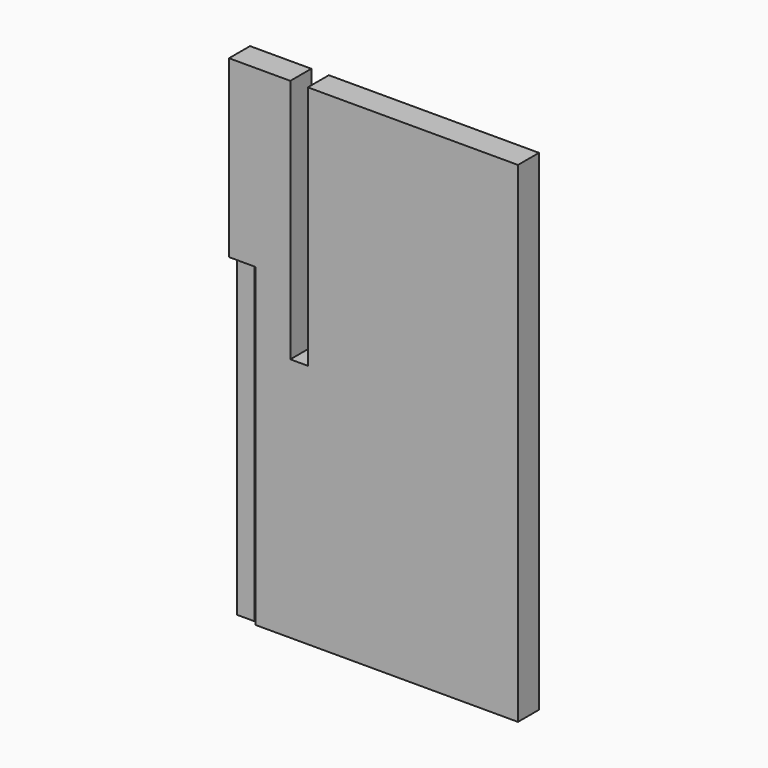
from build123d import *

# Parameters (mm, degrees)
F1_DEPTH = 150
F2_W     = 25
F2_H     = 1800
F3_DEPTH = 100
F4_W     = 100
F4_H     = 1400
F5_DEPTH = 150


with BuildPart() as f1:
    # F0 (on Front) → F1 (new body)
    with BuildSketch(Plane.XZ):
        Polygon((-889.035082, 417.200029), (-889.035082, -1382.799971), (610.964918, -1382.799971), (610.964918, 1417.200029), (-1039.035082, 1417.200029), (-1039.035082, 417.200029), (-1014.035082, 417.200029), (-1014.035082, -1382.799971), (-914.035082, -1382.799971), (-914.035082, 417.200029), align=None)
    extrude(amount=F1_DEPTH)

    # F2 (on face) → F3 (cut, through all)
    with BuildSketch(Plane(origin=(-1014.035082, 0, 0), x_dir=(0, -1, 0), z_dir=(-1, 0, 0))):
        with Locations((137.5, -482.799971)):
            Rectangle(F2_W, F2_H)
        with Locations((12.5, -482.799971)):
            Rectangle(F2_W, F2_H)
    extrude(amount=-F3_DEPTH, mode=Mode.SUBTRACT)

    # F4 (on face) → F5 (cut, through all)
    with BuildSketch(Plane.XZ.offset(150)):
        with Locations((-639.035082, 717.200029)):
            Rectangle(F4_W, F4_H)
    extrude(amount=-F5_DEPTH, mode=Mode.SUBTRACT)


solid = f1.part
